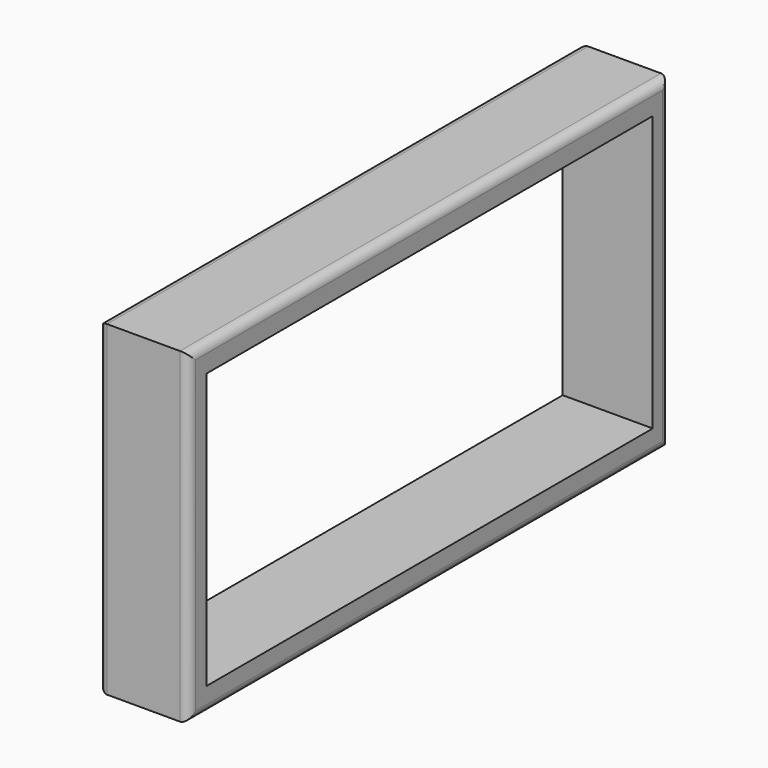
from build123d import *

# Parameters (mm, degrees)
F0_W     = 169.640712
F0_H     = 92.04305
F0_W_2   = 157.417692
F0_H_2   = 77.59766
F1_DEPTH = 25.4
F2_R     = 2.452841
F3_R     = 2.4638


with BuildPart() as f1:
    # F0 (on Right) → F1 (new body)
    with BuildSketch(Plane.YZ):
        with Locations((-0.161145, -1.181595)):
            Rectangle(F0_W, F0_H)
        with Locations((0.024054, -1.366796)):
            Rectangle(F0_W_2, F0_H_2, mode=Mode.SUBTRACT)
    extrude(amount=F1_DEPTH)

    # F2
    f2_edges = [f1.edges().sort_by_distance(p)[0] for p in [
        (25.4, -0.161145, -47.20312),
        (25.4, -84.981501, -1.181595),
        (25.4, -0.161145, 44.83993),
        (25.4, 84.659211, -1.181595),
    ]]
    fillet(f2_edges, radius=F2_R)

    # F3
    f3_edges = [f1.edges().sort_by_distance(p)[0] for p in [
        (0, 84.659211, -1.181595),
        (0, -0.161145, 44.83993),
        (0, -0.161145, -47.20312),
        (0, -84.981501, -1.181595),
    ]]
    fillet(f3_edges, radius=F3_R)


solid = f1.part
